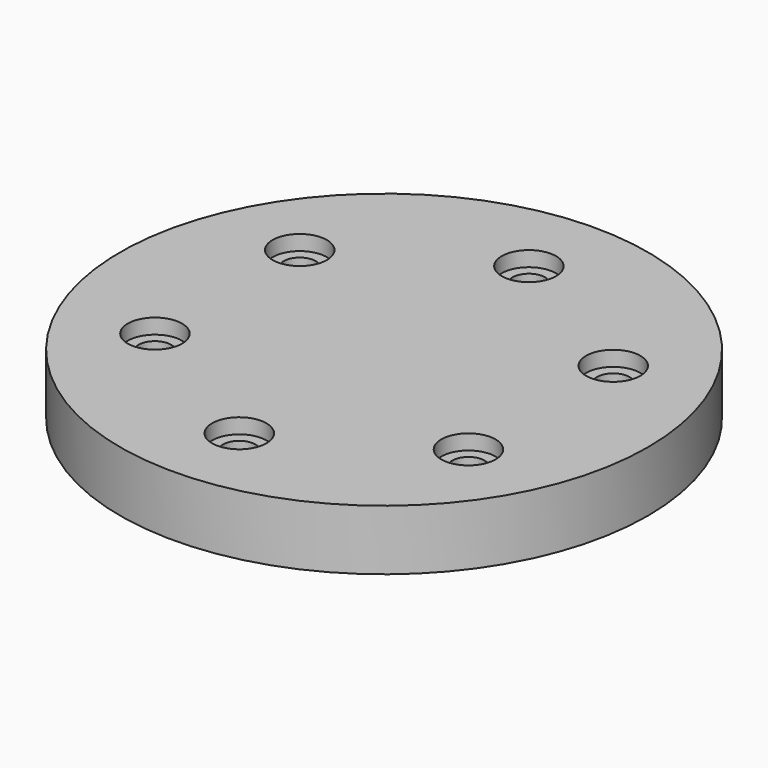
from build123d import *

# Parameters (mm, degrees)
CYLINDER014005857_R             = 2.15
CYLINDER014005857_DEPTH         = 16
CYLINDER014005858_R             = 3.6
CYLINDER014005858_DEPTH         = 4
FUSION001089095_PLACEMENT_ANGLE = 60
FUSION001089096_PLACEMENT_ANGLE = 120
FUSION001089097_PLACEMENT_ANGLE = 180
FUSION001089098_PLACEMENT_ANGLE = 240
FUSION001089099_PLACEMENT_ANGLE = 60
CYLINDER014005856_R             = 35
CYLINDER014005856_DEPTH         = 8


with BuildPart() as obj1:
    # Cylinder014005857 → Cylinder014005857 (new body)
    with BuildSketch(Plane(origin=(0, 24, -6), x_dir=(1, 0, 0), z_dir=(0, 0, 1))):
        Circle(CYLINDER014005857_R)
    extrude(amount=CYLINDER014005857_DEPTH)


with BuildPart() as obj2:
    # Cylinder014005858 → Cylinder014005858 (new body)
    with BuildSketch(Plane(origin=(0, 24, 6), x_dir=(1, 0, 0), z_dir=(0, 0, 1))):
        Circle(CYLINDER014005858_R)
    extrude(amount=CYLINDER014005858_DEPTH)

    # Fusion001089094: union obj1
    add(obj1.part)


with BuildPart() as obj3:
    # Fusion001089095 base: copy of obj2
    add(obj2.part)


with BuildPart() as obj3_1:
    # Fusion001089095 placement: moved
    add(obj3.part.rotate(Axis((0, 0, 0), (0, 0, 1)), FUSION001089095_PLACEMENT_ANGLE))


with BuildPart() as obj4:
    # Fusion001089096 base: copy of obj2
    add(obj2.part)


with BuildPart() as obj4_1:
    # Fusion001089096 placement: moved
    add(obj4.part.rotate(Axis((0, 0, 0), (0, 0, 1)), FUSION001089096_PLACEMENT_ANGLE))


with BuildPart() as obj5:
    # Fusion001089097 base: copy of obj2
    add(obj2.part)


with BuildPart() as obj5_1:
    # Fusion001089097 placement: moved
    add(obj5.part.rotate(Axis((0, 0, 0), (0, 0, 1)), FUSION001089097_PLACEMENT_ANGLE))


with BuildPart() as obj6:
    # Fusion001089098 base: copy of obj2
    add(obj2.part)


with BuildPart() as obj6_1:
    # Fusion001089098 placement: moved
    add(obj6.part.rotate(Axis((0, 0, 0), (0, 0, 1)), FUSION001089098_PLACEMENT_ANGLE))


with BuildPart() as obj7:
    # Fusion001089099 base: copy of obj2
    add(obj2.part)


with BuildPart() as obj7_1:
    # Fusion001089099 placement: moved
    add(obj7.part.rotate(Axis((0, 0, 0), (0, 0, -1)), FUSION001089099_PLACEMENT_ANGLE))


with BuildPart() as fusion001089100:
    # Fusion001089100 base: copy of obj2
    add(obj2.part)

    # Fusion001089100: union obj3, obj4, obj5, obj6, obj7
    add(obj3_1.part)
    add(obj4_1.part)
    add(obj5_1.part)
    add(obj6_1.part)
    add(obj7_1.part)


with BuildPart() as old:
    # Cylinder014005856 → Cylinder014005856 (new body)
    with BuildSketch(Plane.XY):
        Circle(CYLINDER014005856_R)
    extrude(amount=CYLINDER014005856_DEPTH)

    # Cut009003003008: cut Fusion001089100
    add(fusion001089100.part, mode=Mode.SUBTRACT)


solid = old.part
